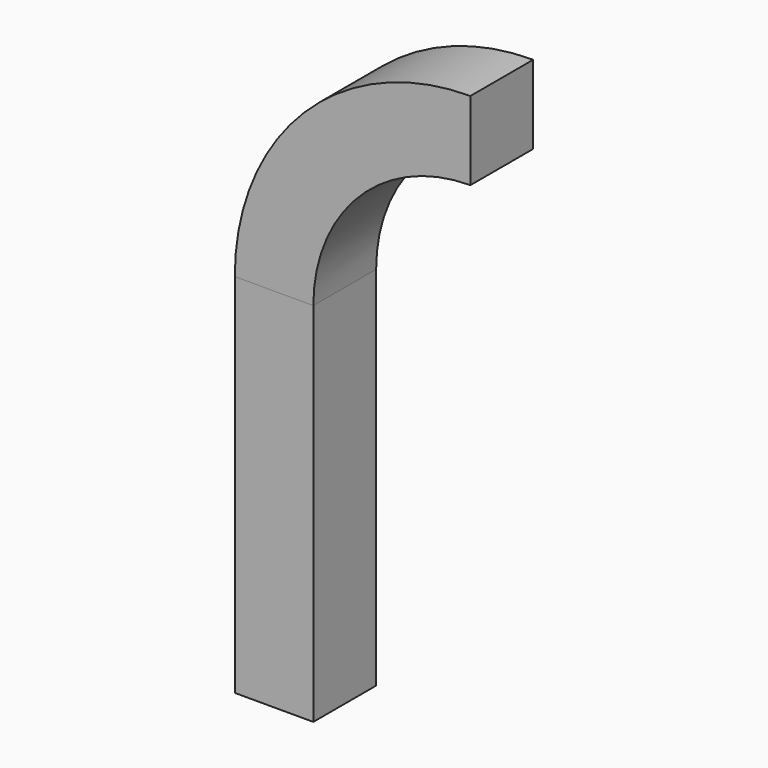
from build123d import *

# Parameters (mm, degrees)
F0_W     = 300
F0_H     = 1400
F1_DEPTH = 300
F2_DEPTH = 300


with BuildPart() as f1:
    # F0 (on Front) → F1 (new body)
    with BuildSketch(Plane.XZ):
        with Locations((-750, 700)):
            Rectangle(F0_W, F0_H)
    extrude(amount=F1_DEPTH)


with BuildPart() as f2:
    # F0 (on Front) → F2 (new body)
    with BuildSketch(Plane.XZ):
        with BuildLine():
            Line((-900, 1400), (-600, 1400))
            ThreePointArc((-600, 1400), (-424.264069, 1824.264069), (0, 2000))
            Line((0, 2000), (0, 2300))
            ThreePointArc((0, 2300), (-636.396103, 2036.396103), (-900, 1400))
        make_face()
    extrude(amount=F2_DEPTH)


solid = Compound([f1.part, f2.part])
